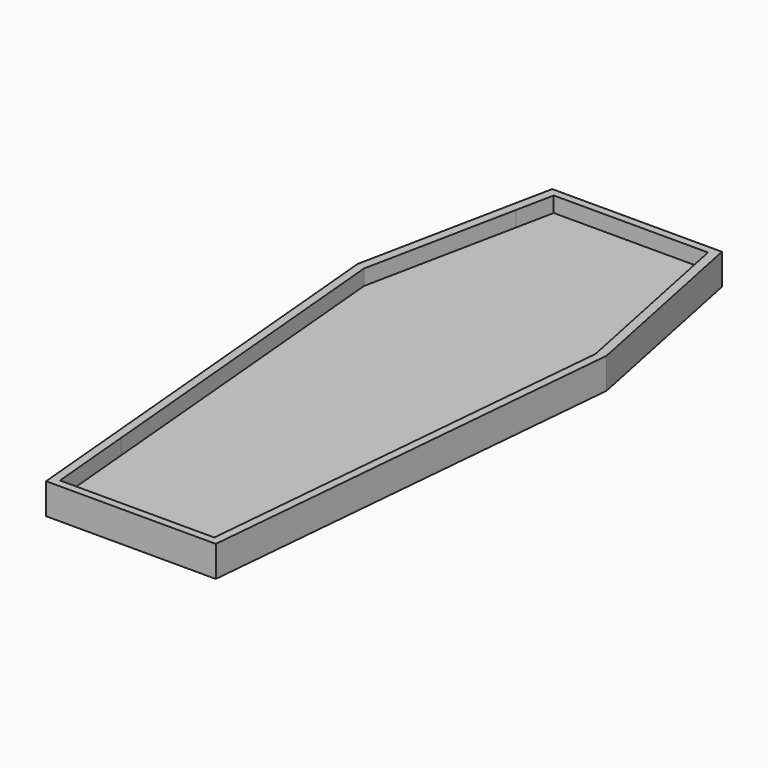
from build123d import *

# Parameters (mm, degrees)
F0_W     = 20
F0_H     = 80
F1_DEPTH = 2
F2_DEPTH = 4


with BuildPart() as f1:
    # F0 (on Top) → F1 (new body)
    with BuildSketch(Plane.XY):
        Polygon((-11, -28.898979), (-11, 35.101021), (-15, 15.505103), align=None)
        Rectangle(F0_W, F0_H)
        Polygon((15, 15.505103), (11, 35.101021), (11, -28.898979), align=None)
        Polygon((11, 35.101021), (10, 40), (10, -40), (11, -28.898979), align=None)
        Polygon((-10, -40), (-10, 40), (-11, 35.101021), (-11, -28.898979), align=None)
    extrude(amount=F1_DEPTH)

    # F0 (on Top) → F2 (join)
    with BuildSketch(Plane.XY):
        Polygon((-15, 15.505103), (-11, 35.101021), (-11, 41), (-16.125, 15.89273), (-11, -41), (-11, -28.898979), align=None)
        Polygon((-10, 40), (10, 40), (11, 35.101021), (11, 41), (-11, 41), (-11, 35.101021), align=None)
        Polygon((11, 41), (11, 35.101021), (15, 15.505103), (11, -28.898979), (11, -41), (16.125, 15.89273), align=None)
        Polygon((11, -28.898979), (10, -40), (-10, -40), (-11, -28.898979), (-11, -41), (11, -41), align=None)
    extrude(amount=F2_DEPTH)


solid = f1.part
